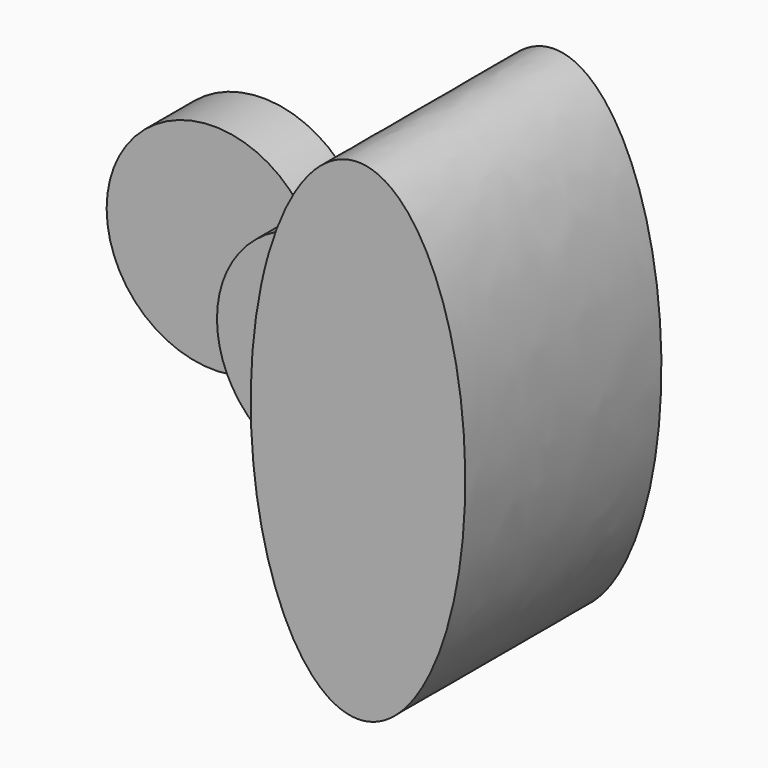
from build123d import *

# Parameters (mm, degrees)
F1_DEPTH = 101.6
F2_DEPTH = 63.5
F3_DEPTH = 25.4


with BuildPart() as f1:
    # F0 (on Front) → F1 (new body)
    with BuildSketch(Plane.XZ):
        with BuildLine():
            add(Edge.make_bspline(
                [(44.45, 101.6), (16.5695958263, 101.6), (4.4327224861, 44.2284237947)],
                knots=[3.1415926536, 3.1415926536, 3.1415926536, 4.2619962518, 4.2619962518, 4.2619962518], degree=2, weights=[1, 0.8471479009, 1]))
            ThreePointArc((4.4327224861, 44.2284237947), (32.9608632662, 29.8225416882), (44.45, 0))
            Line((44.45, 0), (44.45, 101.6))
        make_face()
        with BuildLine():
            ThreePointArc((44.45, 0), (32.9608632662, -29.8225416882), (4.4327224861, -44.2284237947))
            add(Edge.make_bspline(
                [(4.4327224861, -44.2284237947), (39.4108675696, -209.5717754088), (82.1057241929, -53.9858877044), (124.8005808161, 101.6), (44.45, 101.6)],
                knots=[5.1627817089, 5.1627817089, 5.1627817089, 7.2937798348, 7.2937798348, 9.4247779608, 9.4247779608, 9.4247779608], degree=2, weights=[1, 0.4840675767, 1, 0.4840675767, 1]))
            Line((44.45, 101.6), (44.45, 0))
        make_face()
        with BuildLine():
            add(Edge.make_bspline(
                [(4.4327224861, 44.2284237947), (0, 23.2747342585), (0, 0)],
                knots=[4.2619962518, 4.2619962518, 4.2619962518, 4.7123889804, 4.7123889804, 4.7123889804], degree=2, weights=[1, 0.9747502782, 1]))
            add(Edge.make_bspline(
                [(0, 0), (0, -23.2747342585), (4.4327224861, -44.2284237947)],
                knots=[4.7123889804, 4.7123889804, 4.7123889804, 5.1627817089, 5.1627817089, 5.1627817089], degree=2, weights=[1, 0.9747502782, 1]))
            ThreePointArc((4.4327224861, -44.2284237947), (32.9608632662, -29.8225416882), (44.45, 0))
            ThreePointArc((44.45, 0), (32.9608632662, 29.8225416882), (4.4327224861, 44.2284237947))
        make_face()
    extrude(amount=F1_DEPTH)

    # F0 (on Front) → F2 (join)
    with BuildSketch(Plane.XZ):
        with BuildLine():
            ThreePointArc((-38.1, 22.8952505992), (-33.3669082367, 11.879762203), (-31.75, 0))
            Line((-31.75, 0), (0, 0))
            add(Edge.make_bspline(
                [(4.4327224861, 44.2284237947), (0, 23.2747342585), (0, 0)],
                knots=[4.2619962518, 4.2619962518, 4.2619962518, 4.7123889804, 4.7123889804, 4.7123889804], degree=2, weights=[1, 0.9747502782, 1]))
            ThreePointArc((4.4327224861, 44.2284237947), (-19.9285589907, 39.732292113), (-38.1, 22.8952505992))
        make_face()
        with BuildLine():
            Line((-44.45, 0), (-31.75, 0))
            ThreePointArc((-31.75, 0), (-33.3669082367, 11.879762203), (-38.1, 22.8952505992))
            ThreePointArc((-38.1, 22.8952505992), (-42.8330917633, 11.879762203), (-44.45, 0))
        make_face()
        with BuildLine():
            ThreePointArc((-38.1, -22.8952505992), (-33.3669082367, -11.879762203), (-31.75, 0))
            Line((-31.75, 0), (-44.45, 0))
            ThreePointArc((-44.45, 0), (-42.8330917633, -11.879762203), (-38.1, -22.8952505992))
        make_face()
        with BuildLine():
            Line((0, 0), (-31.75, 0))
            ThreePointArc((-31.75, 0), (-33.3669082367, -11.879762203), (-38.1, -22.8952505992))
            ThreePointArc((-38.1, -22.8952505992), (-19.9285589907, -39.732292113), (4.4327224861, -44.2284237947))
            add(Edge.make_bspline(
                [(0, 0), (0, -23.2747342585), (4.4327224861, -44.2284237947)],
                knots=[4.7123889804, 4.7123889804, 4.7123889804, 5.1627817089, 5.1627817089, 5.1627817089], degree=2, weights=[1, 0.9747502782, 1]))
        make_face()
    extrude(amount=F2_DEPTH)

    # F0 (on Front) → F3 (join)
    with BuildSketch(Plane.XZ):
        with BuildLine():
            ThreePointArc((-44.45, 0), (-42.8330917633, 11.879762203), (-38.1, 22.8952505992))
            ThreePointArc((-38.1, 22.8952505992), (-120.65, 0), (-38.1, -22.8952505992))
            ThreePointArc((-38.1, -22.8952505992), (-42.8330917633, -11.879762203), (-44.45, 0))
        make_face()
    extrude(amount=F3_DEPTH)


solid = f1.part
